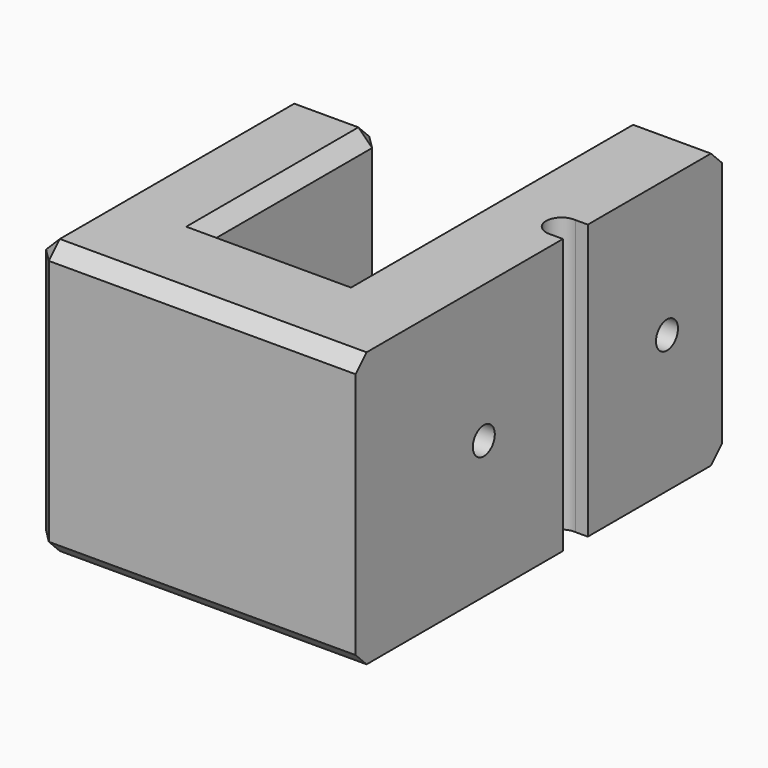
from build123d import *

# Parameters (mm, degrees)
PAD_DEPTH       = 60
POCKET_DEPTH    = 60.001
SKETCH002_R     = 3
POCKET001_DEPTH = 20.001
CHAMFER_SIZE    = 2
CHAMFER001_SIZE = 2
CHAMFER002_SIZE = 3
CHAMFER003_SIZE = 3
SKETCH003_R     = 5
POCKET002_DEPTH = 20


with BuildPart() as part:
    # Sketch → Pad (new body)
    with BuildSketch(Plane.XY):
        Polygon((0, 70), (20, 70), (20, 20), (50, 20), (50, 100), (70, 100), (70, 0), (0, 0), align=None)
    extrude(amount=PAD_DEPTH)

    # Sketch001 (on DatumPlane) → Pocket (cut, through all)
    with BuildSketch(Plane.XY.offset(60)):
        with BuildLine():
            ThreePointArc((67.267666, 63.389448), (63.602639, 60.133937), (67, 56.6))
            Line((67, 56.6), (70, 56.6))
            Line((70, 63.389448), (70, 56.6))
            Line((67.267666, 63.389448), (70, 63.389448))
        make_face()
    extrude(amount=-POCKET_DEPTH, mode=Mode.SUBTRACT)

    # Sketch002 (on Face14 of Pocket) → Pocket001 (cut, through all)
    with BuildSketch(Plane(origin=(50, 0, 0), x_dir=(0, -1, 0), z_dir=(-1, 0, 0))):
        with Locations((-85, 30)):
            Circle(SKETCH002_R)
        with Locations((-35, 30)):
            Circle(SKETCH002_R)
    extrude(amount=-POCKET001_DEPTH, mode=Mode.SUBTRACT)

    # Chamfer
    chamfer_edges = [part.edges().sort_by_distance(p)[0] for p in [
        (50, 88, 30),
    ]]
    chamfer(chamfer_edges, length=CHAMFER_SIZE)

    # Chamfer001
    chamfer001_edges = [part.edges().sort_by_distance(p)[0] for p in [
        (50, 38, 30),
    ]]
    chamfer(chamfer001_edges, length=CHAMFER001_SIZE)

    # Chamfer002
    chamfer002_edges = [part.edges().sort_by_distance(p)[0] for p in [
        (50, 100, 30),
        (50, 60, 0),
        (50, 60, 60),
    ]]
    chamfer(chamfer002_edges, length=CHAMFER002_SIZE)

    # Chamfer003
    chamfer003_edges = [part.edges().sort_by_distance(p)[0] for p in [
        (0, 35, 60),
        (0, 0, 30),
        (0, 35, 0),
        (0, 70, 30),
        (35, 0, 60),
        (35, 0, 0),
        (20, 45, 60),
        (10, 70, 60),
        (35, 20, 0),
        (20, 45, 0),
        (10, 70, 0),
        (20, 70, 30),
        (61.5, 100, 0),
        (61.5, 100, 60),
    ]]
    chamfer(chamfer003_edges, length=CHAMFER003_SIZE)

    # Sketch003 (on DatumPlane) → Pocket002 (cut)
    with BuildSketch(Plane(origin=(0, 0, 0), x_dir=(0, -1, 0), z_dir=(-1, 0, 0))):
        with Locations((-35, 30)):
            Circle(SKETCH003_R)
    extrude(amount=-POCKET002_DEPTH, mode=Mode.SUBTRACT)


solid = part.part
